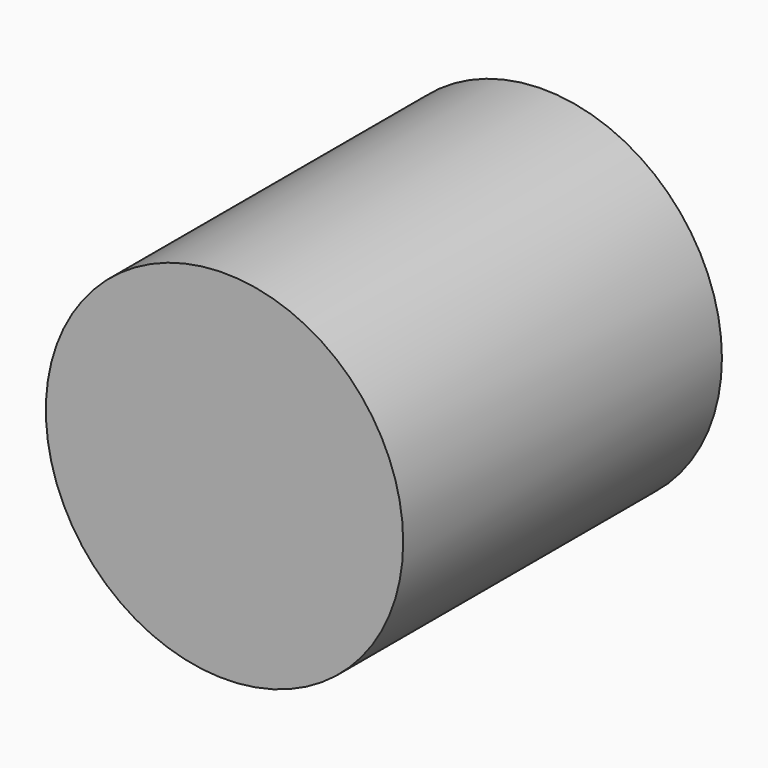
from build123d import *

# Parameters (mm, degrees)
F0_R     = 6.35
F0_R_2   = 2.0574
F1_DEPTH = 4.826
F2_R     = 6.35
F3_DEPTH = 9.3345
F4_R     = 0.635
F5_DEPTH = 8.0645


with BuildPart() as f1:
    # F0 (on Front) → F1 (new body)
    with BuildSketch(Plane.XZ):
        Circle(F0_R)
        Circle(F0_R_2, mode=Mode.SUBTRACT)
    extrude(amount=F1_DEPTH)

    # F2 (on face) → F3 (join)
    with BuildSketch(Plane.XZ.offset(4.826)):
        Circle(F2_R)
    extrude(amount=F3_DEPTH)


with BuildPart() as f5:
    # F4 (on face) → F5 (new body)
    with BuildSketch(Plane(origin=(0, -4.826, 0), x_dir=(-1, 0, 0), z_dir=(0, 1, 0))):
        Circle(F4_R)
    extrude(amount=-F5_DEPTH)


solid = Compound([f1.part, f5.part])
